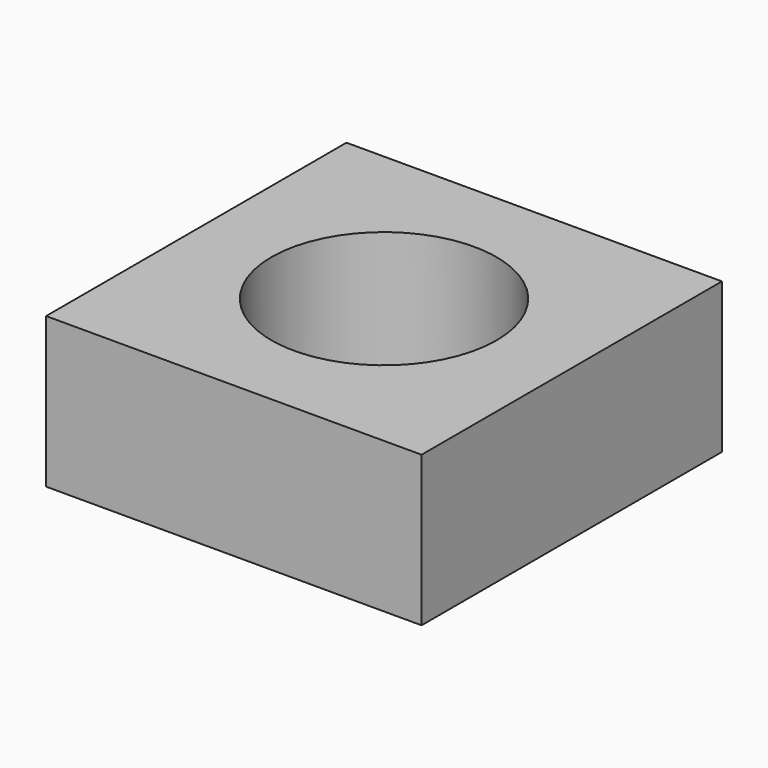
from build123d import *

# Parameters (mm, degrees)
F0_W     = 25
F0_H     = 25
F1_DEPTH = 10
F2_R     = 7.5
F3_DEPTH = 10.001


with BuildPart() as f1:
    # F0 (on Top) → F1 (new body)
    with BuildSketch(Plane.XY):
        with Locations((3.349018, -9.797464)):
            Rectangle(F0_W, F0_H)
    extrude(amount=F1_DEPTH)

    # F2 (on face) → F3 (cut, through all)
    with BuildSketch(Plane(origin=(0, 0, 0), x_dir=(1, 0, 0), z_dir=(0, 0, -1))):
        with Locations((3.349018, 9.797464)):
            Circle(F2_R)
    extrude(amount=-F3_DEPTH, mode=Mode.SUBTRACT)


solid = f1.part
